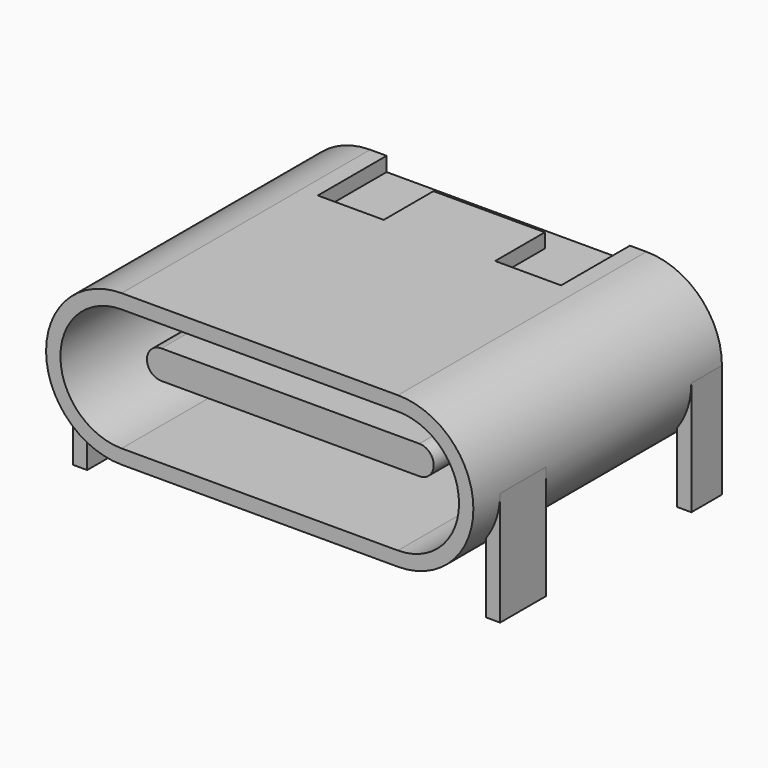
from build123d import *

# Parameters (mm, degrees)
PAD_DEPTH         = 6.5
POCKET_DEPTH      = 1
SKETCH002_W       = 0.3
SKETCH002_H       = 1.2
SKETCH002_H_2     = 0.8
PAD001_DEPTH      = 1.58
PAD001_DEPTH_BACK = -0.8
SKETCH004_W       = 0.2
SKETCH004_H       = 0.75
PAD002_DEPTH      = 0.2
PAD003_DEPTH      = 2
PAD004_DEPTH      = 5.7


with BuildPart() as part:
    # Sketch → Pad (new body)
    with BuildSketch(Plane.XZ):
        with BuildLine():
            ThreePointArc((-2.89, 3.16), (-4.47, 1.58), (-2.89, 0))
            Line((-2.89, 0), (2.89, 0))
            ThreePointArc((2.89, 0), (4.47, 1.58), (2.89, 3.16))
            Line((2.89, 3.16), (-2.89, 3.16))
        make_face()
        with BuildLine():
            ThreePointArc((-2.89, 2.86), (-4.17, 1.58), (-2.89, 0.3))
            Line((-2.89, 0.3), (2.89, 0.3))
            ThreePointArc((2.89, 0.3), (4.17, 1.58), (2.89, 2.86))
            Line((2.89, 2.86), (-2.89, 2.86))
        make_face(mode=Mode.SUBTRACT)
    extrude(amount=PAD_DEPTH)

    # Sketch001 (on DatumPlane) → Pocket (cut)
    with BuildSketch(Plane(origin=(0, 0, 3.16), x_dir=(-1, 0, 0), z_dir=(0, 0, 1))):
        Polygon((-2.545, 0), (-2.545, 1.8), (-1.165, 1.8), (-1.165, 0.5), (1.165, 0.5), (1.165, 1.8), (2.545, 1.8), (2.545, 0), align=None)
    extrude(amount=-POCKET_DEPTH, mode=Mode.SUBTRACT)

    # Sketch002 (on DatumPlane) → Pad001 (join, two sides)
    with BuildSketch(Plane(origin=(0, 0, 0), x_dir=(1, 0, 0), z_dir=(0, 0, -1))) as pad001_sk:
        with Locations((-4.32, 5.2)):
            Rectangle(SKETCH002_W, SKETCH002_H)
        with Locations((4.32, 5.2)):
            Rectangle(SKETCH002_W, SKETCH002_H)
        with Locations((-4.32, 0.4)):
            Rectangle(SKETCH002_W, SKETCH002_H_2)
        with Locations((4.32, 0.4)):
            Rectangle(SKETCH002_W, SKETCH002_H_2)
    extrude(amount=-PAD001_DEPTH)
    extrude(pad001_sk.sketch, amount=-PAD001_DEPTH_BACK)

    # Sketch004 → Pad002 (join)
    with BuildSketch(Plane(origin=(0, 0, 0), x_dir=(1, 0, 0), z_dir=(0, 0, -1))):
        with Locations((-3.35, -0.035)):
            Rectangle(SKETCH004_W, SKETCH004_H)
        with Locations((-3.1, -0.035)):
            Rectangle(SKETCH004_W, SKETCH004_H)
        with Locations((-2.53, -0.035)):
            Rectangle(SKETCH004_W, SKETCH004_H)
        with Locations((-2.28, -0.035)):
            Rectangle(SKETCH004_W, SKETCH004_H)
        with Locations((-1.75, -0.035)):
            Rectangle(SKETCH004_W, SKETCH004_H)
        with Locations((-1.25, -0.035)):
            Rectangle(SKETCH004_W, SKETCH004_H)
        with Locations((-0.75, -0.035)):
            Rectangle(SKETCH004_W, SKETCH004_H)
        with Locations((-0.25, -0.035)):
            Rectangle(SKETCH004_W, SKETCH004_H)
        with Locations((3.35, -0.035)):
            Rectangle(SKETCH004_W, SKETCH004_H)
        with Locations((3.1, -0.035)):
            Rectangle(SKETCH004_W, SKETCH004_H)
        with Locations((2.53, -0.035)):
            Rectangle(SKETCH004_W, SKETCH004_H)
        with Locations((2.28, -0.035)):
            Rectangle(SKETCH004_W, SKETCH004_H)
        with Locations((1.75, -0.035)):
            Rectangle(SKETCH004_W, SKETCH004_H)
        with Locations((1.25, -0.035)):
            Rectangle(SKETCH004_W, SKETCH004_H)
        with Locations((0.75, -0.035)):
            Rectangle(SKETCH004_W, SKETCH004_H)
        with Locations((0.25, -0.035)):
            Rectangle(SKETCH004_W, SKETCH004_H)
    extrude(amount=-PAD002_DEPTH)

    # Sketch005 (on DatumPlane) → Pad003 (join)
    with BuildSketch(Plane(origin=(0, 0, 0), x_dir=(1, 0, 0), z_dir=(0, 1, 0))):
        with BuildLine():
            ThreePointArc((-2.95, -0.3), (-4.23, -1.58), (-2.95, -2.86))
            Line((-2.95, -2.86), (2.95, -2.86))
            ThreePointArc((2.95, -2.86), (4.23, -1.58), (2.95, -0.3))
            Line((2.95, -0.3), (-2.95, -0.3))
        make_face()
    extrude(amount=-PAD003_DEPTH)

    # Sketch006 (on DatumPlane) → Pad004 (join)
    with BuildSketch(Plane(origin=(0, 0, 0), x_dir=(1, 0, 0), z_dir=(0, 1, 0))):
        with BuildLine():
            ThreePointArc((-2.7, -1.28), (-3, -1.58), (-2.7, -1.88))
            Line((-2.7, -1.88), (2.7, -1.88))
            ThreePointArc((2.7, -1.88), (3, -1.58), (2.7, -1.28))
            Line((2.7, -1.28), (-2.7, -1.28))
        make_face()
    extrude(amount=-PAD004_DEPTH)


solid = part.part
